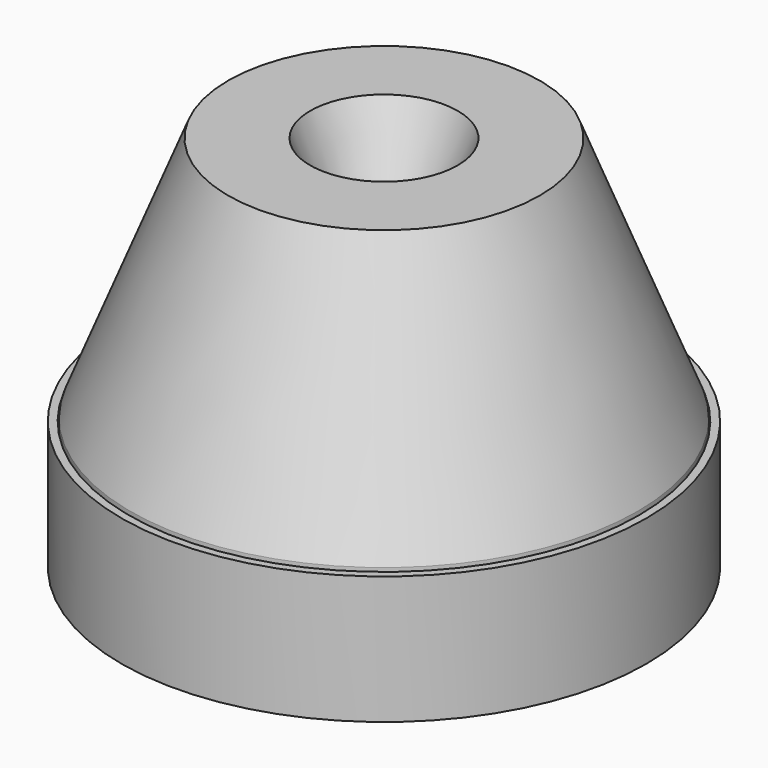
from build123d import *


with BuildPart() as f2:
    # F0 (on Front) → F2 (revolve)
    with BuildSketch(Plane.XZ):
        Polygon((39.2938, -6.858), (39.2938, 0), (24.13, 38.1), (11.43, 38.1), (0.79375, 12.7), (2.087992, 12.7), (12.224338, 36.9062), (23.320255, 36.9062), (38.1, -0.228837), (38.1, -6.858), align=None)
    revolve(axis=Axis((0, 0, 30.824983), (0, 0, 1)))


with BuildPart() as f5:
    # F3 (on Front) → F5 (revolve)
    with BuildSketch(Plane.XZ):
        Polygon((40.6654, -20.355182), (40.6654, -0.508), (39.4716, -0.508), (39.4716, -6.858), (37.9476, -6.858), (37.9476, -0.508), (36.7538, -0.508), (36.7538, -3.189887), (30.48, -3.189887), (30.48, -17.159887), (0, -17.159887), (0, -20.355182), align=None)
    revolve(axis=Axis((0, 0, -6.985675), (0, 0, -1)))


solid = Compound([f2.part, f5.part])
